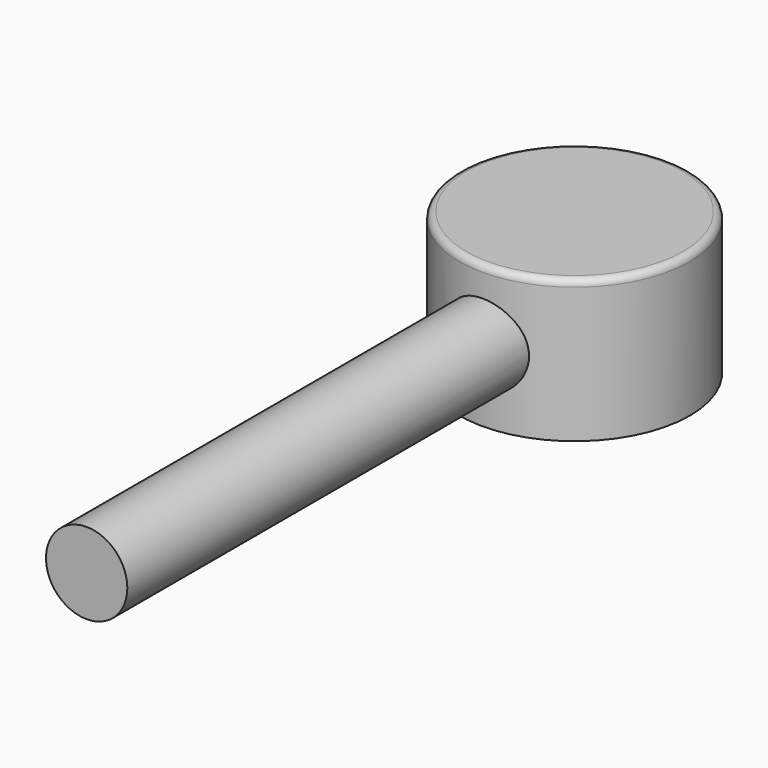
from build123d import *

# Parameters (mm, degrees)
F4_R = 3


with BuildPart() as f2:
    # F1 (on Front) → F2 (revolve)
    with BuildSketch(Plane.XZ):
        with BuildLine():
            Line((8, 10), (8, 0))
            Line((8, 0), (8.5, 0))
            Line((8.5, 0), (8.5, 10))
            ThreePointArc((8.5, 10), (8.3535533906, 10.3535533906), (8, 10.5))
            Line((8, 10.5), (0, 10.5))
            Line((0, 10.5), (0, 10))
            Line((0, 10), (8, 10))
        make_face()
    revolve(axis=Axis((0, 0, 0), (0, 0, 1)))

    # F5: sweep along a path in F3
    with BuildLine(Plane.YZ) as f5_path:
        Line((-53, 5.2680876106), (-8, 5.2680876106))
    # F4 (on Front) → F5 (sweep)
    with BuildSketch(Plane.XZ):
        with Locations((0, 5.3068501875)):
            Circle(F4_R)
    sweep(path=f5_path.line)


solid = f2.part
